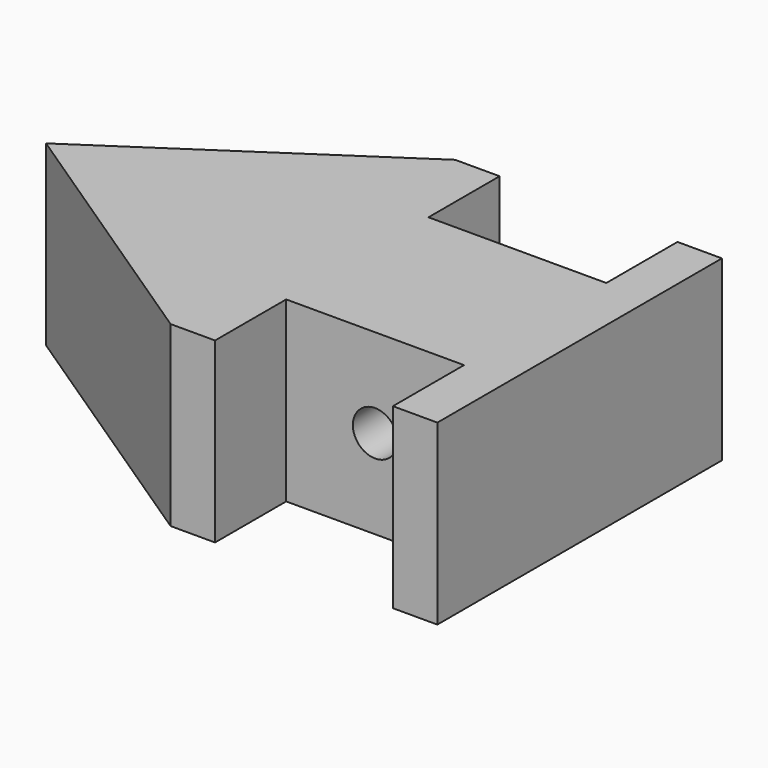
from build123d import *

# Parameters (mm, degrees)
F1_DEPTH = 25.4
F2_W     = 25.4
F2_H     = 12.7
F3_DEPTH = 25.4
F4_R     = 3.175
F5_DEPTH = 12.7


with BuildPart() as f1:
    # F0 (on Top) → F1 (new body)
    with BuildSketch(Plane.XY):
        Polygon((76.2, 0), (0, 0), (38.1, -25.4), (76.2, -25.4), align=None)
    extrude(amount=F1_DEPTH)

    # F2 (on face) → F3 (cut)
    with BuildSketch(Plane.XY.offset(25.4)):
        with Locations((57.15, -19.05)):
            Rectangle(F2_W, F2_H)
    extrude(amount=-F3_DEPTH, mode=Mode.SUBTRACT)

    # F4 (on face) → F5 (cut)
    with BuildSketch(Plane.XZ.offset(12.7)):
        with Locations((57.15, 12.7)):
            Circle(F4_R)
    extrude(amount=-F5_DEPTH, mode=Mode.SUBTRACT)

    # F6: F1 across plane


with BuildPart() as f1_1:
    add(f1.part)
    add(f1.part.mirror(Plane.XZ))


solid = f1_1.part
